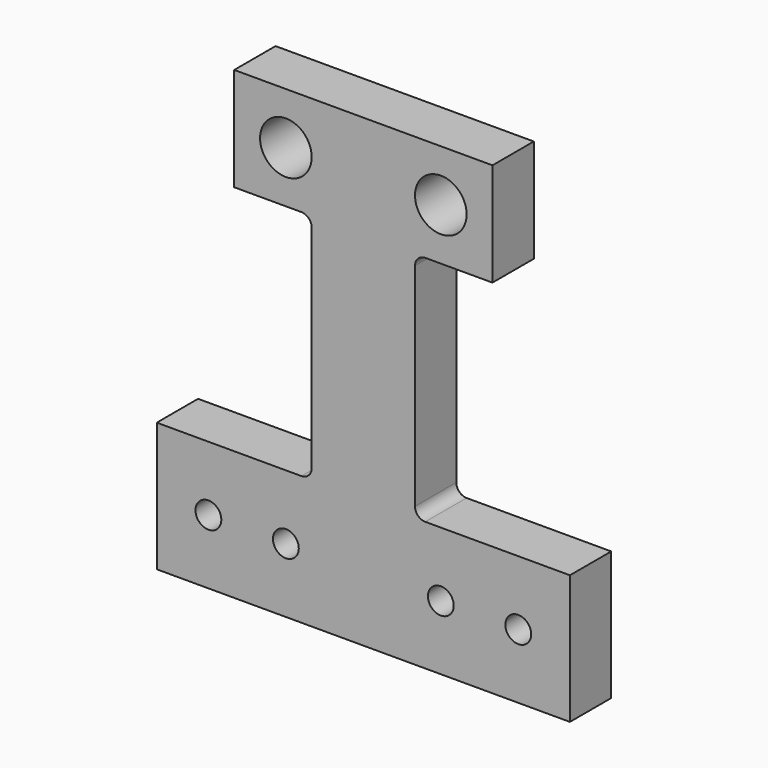
from build123d import *

# Parameters (mm, degrees)
F0_R     = 12.7
F0_R_2   = 6.35
F1_DEPTH = 25.4
F2_R     = 5.08


with BuildPart() as f1:
    # F0 (on Front) → F1 (new body)
    with BuildSketch(Plane.XZ):
        Polygon((-25.4, 0), (0, 0), (25.4, 0), (25.4, 76.2), (63.5, 76.2), (63.5, 127), (-63.5, 127), (-63.5, 76.2), (-25.4, 76.2), align=None)
        with Locations((-38.1, 101.6)):
            Circle(F0_R, mode=Mode.SUBTRACT)
        with Locations((38.1, 101.6)):
            Circle(F0_R, mode=Mode.SUBTRACT)
        Polygon((25.4, 0), (0, 0), (-25.4, 0), (-25.4, -38.1), (-101.6, -38.1), (-101.6, -101.6), (101.6, -101.6), (101.6, -38.1), (25.4, -38.1), align=None)
        with Locations((-76.2, -69.85)):
            Circle(F0_R_2, mode=Mode.SUBTRACT)
        with Locations((-38.1, -69.85)):
            Circle(F0_R_2, mode=Mode.SUBTRACT)
        with Locations((38.1, -69.85)):
            Circle(F0_R_2, mode=Mode.SUBTRACT)
        with Locations((76.2, -69.85)):
            Circle(F0_R_2, mode=Mode.SUBTRACT)
    extrude(amount=F1_DEPTH)

    # F2
    f2_edges = [f1.edges().sort_by_distance(p)[0] for p in [
        (-25.4, -12.7, 76.2),
        (-25.4, -12.7, -38.1),
        (25.4, -12.7, -38.1),
        (25.4, -12.7, 76.2),
    ]]
    fillet(f2_edges, radius=F2_R)


solid = f1.part
